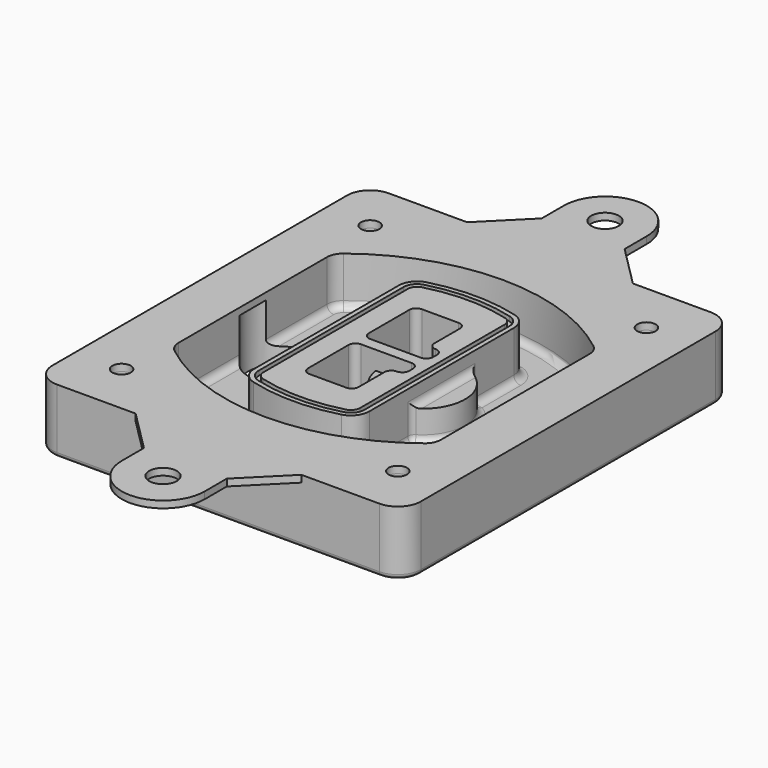
from build123d import *

# Parameters (mm, degrees)
F0_R      = 4
F1_DEPTH  = 25
F2_DEPTH  = 3
F3_DEPTH  = 18
F5_DEPTH  = 21
F6_DEPTH  = 2
F8_DEPTH  = 20
F9_DEPTH  = 16
F10_DEPTH = 25
F7_R      = 6
F7_R_2    = 4
F11_DEPTH = 6
F13_DEPTH = 9
F14_R     = 3
F15_R     = 2
F16_R     = 4
F16_R_2   = 6
F17_DEPTH = 3


with BuildPart() as f1:
    # F0 (on Top) → F1 (new body)
    with BuildSketch(Plane.XY):
        with BuildLine():
            ThreePointArc((-80, -80), (-77.0710678119, -87.0710678119), (-70, -90))
            Line((-70, -90), (70, -90))
            ThreePointArc((70, -90), (77.0710678119, -87.0710678119), (80, -80))
            Line((80, -80), (80, 80))
            ThreePointArc((80, 80), (77.0710678119, 87.0710678119), (70, 90))
            Line((70, 90), (-70, 90))
            ThreePointArc((-70, 90), (-77.0710678119, 87.0710678119), (-80, 80))
            Line((-80, 80), (-80, -80))
        make_face()
        with Locations((-60, -67.5)):
            Circle(F0_R, mode=Mode.SUBTRACT)
        with Locations((60, -67.5)):
            Circle(F0_R, mode=Mode.SUBTRACT)
        with Locations((-60, 67.5)):
            Circle(F0_R, mode=Mode.SUBTRACT)
        with BuildLine():
            ThreePointArc((-64, 40.2934422872), (-62.5820384798, 46.4328484224), (-58.6153846154, 51.3286200352))
            ThreePointArc((-58.6153846154, 51.3286200352), (0, 71.5), (58.6153846154, 51.3286200352))
            ThreePointArc((58.6153846154, 51.3286200352), (62.5820384798, 46.4328484224), (64, 40.2934422872))
            Line((64, 40.2934422872), (64, -40.2934422872))
            ThreePointArc((64, -40.2934422872), (62.5820384798, -46.4328484224), (58.6153846154, -51.3286200352))
            ThreePointArc((58.6153846154, -51.3286200352), (0, -71.5), (-58.6153846154, -51.3286200352))
            ThreePointArc((-58.6153846154, -51.3286200352), (-62.5820384798, -46.4328484224), (-64, -40.2934422872))
            Line((-64, -40.2934422872), (-64, 40.2934422872))
        make_face(mode=Mode.SUBTRACT)
        with Locations((60, 67.5)):
            Circle(F0_R, mode=Mode.SUBTRACT)
        with BuildLine():
            ThreePointArc((58.6153846154, 51.3286200352), (0, 71.5), (-58.6153846154, 51.3286200352))
            ThreePointArc((-58.6153846154, 51.3286200352), (-62.5820384798, 46.4328484224), (-64, 40.2934422872))
            Line((-64, 40.2934422872), (-64, -40.2934422872))
            ThreePointArc((-64, -40.2934422872), (-62.5820384798, -46.4328484224), (-58.6153846154, -51.3286200352))
            ThreePointArc((-58.6153846154, -51.3286200352), (0, -71.5), (58.6153846154, -51.3286200352))
            ThreePointArc((58.6153846154, -51.3286200352), (62.5820384798, -46.4328484224), (64, -40.2934422872))
            Line((64, -40.2934422872), (64, 40.2934422872))
            ThreePointArc((64, 40.2934422872), (62.5820384798, 46.4328484224), (58.6153846154, 51.3286200352))
        make_face()
        with BuildLine():
            Line((-60, -40.2934422872), (-60, 40.2934422872))
            ThreePointArc((-60, 40.2934422872), (-58.9871703427, 44.6787323838), (-56.1538461538, 48.1757121072))
            ThreePointArc((-56.1538461538, 48.1757121072), (0, 67.5), (56.1538461538, 48.1757121072))
            ThreePointArc((56.1538461538, 48.1757121072), (58.9871703427, 44.6787323838), (60, 40.2934422872))
            Line((60, 40.2934422872), (60, -40.2934422872))
            ThreePointArc((60, -40.2934422872), (58.9871703427, -44.6787323838), (56.1538461538, -48.1757121072))
            ThreePointArc((56.1538461538, -48.1757121072), (0, -67.5), (-56.1538461538, -48.1757121072))
            ThreePointArc((-56.1538461538, -48.1757121072), (-58.9871703427, -44.6787323838), (-60, -40.2934422872))
        make_face(mode=Mode.SUBTRACT)
        with BuildLine():
            ThreePointArc((-56.1538461538, 48.1757121072), (-58.9871703427, 44.6787323838), (-60, 40.2934422872))
            Line((-60, 40.2934422872), (-60, -40.2934422872))
            ThreePointArc((-60, -40.2934422872), (-58.9871703427, -44.6787323838), (-56.1538461538, -48.1757121072))
            ThreePointArc((-56.1538461538, -48.1757121072), (0, -67.5), (56.1538461538, -48.1757121072))
            ThreePointArc((56.1538461538, -48.1757121072), (58.9871703427, -44.6787323838), (60, -40.2934422872))
            Line((60, -40.2934422872), (60, 40.2934422872))
            ThreePointArc((60, 40.2934422872), (58.9871703427, 44.6787323838), (56.1538461538, 48.1757121072))
            ThreePointArc((56.1538461538, 48.1757121072), (0, 67.5), (-56.1538461538, 48.1757121072))
        make_face()
        with BuildLine():
            ThreePointArc((54.3076923077, 45.8110311612), (56.2910192399, 43.3631453548), (57, 40.2934422872))
            Line((57, 40.2934422872), (57, -40.2934422872))
            ThreePointArc((57, -40.2934422872), (56.2910192399, -43.3631453548), (54.3076923077, -45.8110311612))
            ThreePointArc((54.3076923077, -45.8110311612), (0, -64.5), (-54.3076923077, -45.8110311612))
            ThreePointArc((-54.3076923077, -45.8110311612), (-56.2910192399, -43.3631453548), (-57, -40.2934422872))
            Line((-57, -40.2934422872), (-57, 40.2934422872))
            ThreePointArc((-57, 40.2934422872), (-56.2910192399, 43.3631453548), (-54.3076923077, 45.8110311612))
            ThreePointArc((-54.3076923077, 45.8110311612), (0, 64.5), (54.3076923077, 45.8110311612))
        make_face(mode=Mode.SUBTRACT)
        with BuildLine():
            Line((57, -40.2934422872), (57, 40.2934422872))
            ThreePointArc((57, 40.2934422872), (56.2910192399, 43.3631453548), (54.3076923077, 45.8110311612))
            ThreePointArc((54.3076923077, 45.8110311612), (0, 64.5), (-54.3076923077, 45.8110311612))
            ThreePointArc((-54.3076923077, 45.8110311612), (-56.2910192399, 43.3631453548), (-57, 40.2934422872))
            Line((-57, 40.2934422872), (-57, -40.2934422872))
            ThreePointArc((-57, -40.2934422872), (-56.2910192399, -43.3631453548), (-54.3076923077, -45.8110311612))
            ThreePointArc((-54.3076923077, -45.8110311612), (0, -64.5), (54.3076923077, -45.8110311612))
            ThreePointArc((54.3076923077, -45.8110311612), (56.2910192399, -43.3631453548), (57, -40.2934422872))
        make_face()
    extrude(amount=-F1_DEPTH)

    # F0 (on Top) → F2 (join)
    with BuildSketch(Plane.XY):
        with BuildLine():
            ThreePointArc((-56.1538461538, 48.1757121072), (-58.9871703427, 44.6787323838), (-60, 40.2934422872))
            Line((-60, 40.2934422872), (-60, -40.2934422872))
            ThreePointArc((-60, -40.2934422872), (-58.9871703427, -44.6787323838), (-56.1538461538, -48.1757121072))
            ThreePointArc((-56.1538461538, -48.1757121072), (0, -67.5), (56.1538461538, -48.1757121072))
            ThreePointArc((56.1538461538, -48.1757121072), (58.9871703427, -44.6787323838), (60, -40.2934422872))
            Line((60, -40.2934422872), (60, 40.2934422872))
            ThreePointArc((60, 40.2934422872), (58.9871703427, 44.6787323838), (56.1538461538, 48.1757121072))
            ThreePointArc((56.1538461538, 48.1757121072), (0, 67.5), (-56.1538461538, 48.1757121072))
        make_face()
        with BuildLine():
            ThreePointArc((54.3076923077, 45.8110311612), (56.2910192399, 43.3631453548), (57, 40.2934422872))
            Line((57, 40.2934422872), (57, -40.2934422872))
            ThreePointArc((57, -40.2934422872), (56.2910192399, -43.3631453548), (54.3076923077, -45.8110311612))
            ThreePointArc((54.3076923077, -45.8110311612), (0, -64.5), (-54.3076923077, -45.8110311612))
            ThreePointArc((-54.3076923077, -45.8110311612), (-56.2910192399, -43.3631453548), (-57, -40.2934422872))
            Line((-57, -40.2934422872), (-57, 40.2934422872))
            ThreePointArc((-57, 40.2934422872), (-56.2910192399, 43.3631453548), (-54.3076923077, 45.8110311612))
            ThreePointArc((-54.3076923077, 45.8110311612), (0, 64.5), (54.3076923077, 45.8110311612))
        make_face(mode=Mode.SUBTRACT)
    extrude(amount=F2_DEPTH)

    # F0 (on Top) → F3 (cut)
    with BuildSketch(Plane.XY):
        with BuildLine():
            Line((57, -40.2934422872), (57, 40.2934422872))
            ThreePointArc((57, 40.2934422872), (56.2910192399, 43.3631453548), (54.3076923077, 45.8110311612))
            ThreePointArc((54.3076923077, 45.8110311612), (0, 64.5), (-54.3076923077, 45.8110311612))
            ThreePointArc((-54.3076923077, 45.8110311612), (-56.2910192399, 43.3631453548), (-57, 40.2934422872))
            Line((-57, 40.2934422872), (-57, -40.2934422872))
            ThreePointArc((-57, -40.2934422872), (-56.2910192399, -43.3631453548), (-54.3076923077, -45.8110311612))
            ThreePointArc((-54.3076923077, -45.8110311612), (0, -64.5), (54.3076923077, -45.8110311612))
            ThreePointArc((54.3076923077, -45.8110311612), (56.2910192399, -43.3631453548), (57, -40.2934422872))
        make_face()
    extrude(amount=-F3_DEPTH, mode=Mode.SUBTRACT)

    # F4 (on face) → F5 (join, through all)
    with BuildSketch(Plane.XY.offset(3)):
        with BuildLine():
            ThreePointArc((-25, -39.2465276821), (-23.3511545998, -44.1109737193), (-19.0842911877, -46.9702398883))
            ThreePointArc((-19.0842911877, -46.9702398883), (0, -49.5), (19.0842911877, -46.9702398883))
            ThreePointArc((19.0842911877, -46.9702398883), (23.3511545998, -44.1109737193), (25, -39.2465276821))
            Line((25, -39.2465276821), (25, 39.2465276821))
            ThreePointArc((25, 39.2465276821), (23.3511545998, 44.1109737193), (19.0842911877, 46.9702398883))
            ThreePointArc((19.0842911877, 46.9702398883), (0, 49.5), (-19.0842911877, 46.9702398883))
            ThreePointArc((-19.0842911877, 46.9702398883), (-23.3511545998, 44.1109737193), (-25, 39.2465276821))
            Line((-25, 39.2465276821), (-25, -39.2465276821))
        make_face()
        with BuildLine():
            ThreePointArc((18.5632183908, 45.0393118368), (21.7633659499, 42.89486221), (23, 39.2465276821))
            Line((23, 39.2465276821), (23, -39.2465276821))
            ThreePointArc((23, -39.2465276821), (21.7633659499, -42.89486221), (18.5632183908, -45.0393118368))
            ThreePointArc((18.5632183908, -45.0393118368), (0, -47.5), (-18.5632183908, -45.0393118368))
            ThreePointArc((-18.5632183908, -45.0393118368), (-21.7633659499, -42.89486221), (-23, -39.2465276821))
            Line((-23, -39.2465276821), (-23, 39.2465276821))
            ThreePointArc((-23, 39.2465276821), (-21.7633659499, 42.89486221), (-18.5632183908, 45.0393118368))
            ThreePointArc((-18.5632183908, 45.0393118368), (0, 47.5), (18.5632183908, 45.0393118368))
        make_face(mode=Mode.SUBTRACT)
        with BuildLine():
            Line((23, -39.2465276821), (23, 39.2465276821))
            ThreePointArc((23, 39.2465276821), (21.7633659499, 42.89486221), (18.5632183908, 45.0393118368))
            ThreePointArc((18.5632183908, 45.0393118368), (0, 47.5), (-18.5632183908, 45.0393118368))
            ThreePointArc((-18.5632183908, 45.0393118368), (-21.7633659499, 42.89486221), (-23, 39.2465276821))
            Line((-23, 39.2465276821), (-23, -39.2465276821))
            ThreePointArc((-23, -39.2465276821), (-21.7633659499, -42.89486221), (-18.5632183908, -45.0393118368))
            ThreePointArc((-18.5632183908, -45.0393118368), (0, -47.5), (18.5632183908, -45.0393118368))
            ThreePointArc((18.5632183908, -45.0393118368), (21.7633659499, -42.89486221), (23, -39.2465276821))
        make_face()
        with BuildLine():
            ThreePointArc((18.0421455939, 43.1083837852), (20.1755772999, 41.6787507007), (21, 39.2465276821))
            Line((21, 39.2465276821), (21, -39.2465276821))
            ThreePointArc((21, -39.2465276821), (20.1755772999, -41.6787507007), (18.0421455939, -43.1083837852))
            ThreePointArc((18.0421455939, -43.1083837852), (0, -45.5), (-18.0421455939, -43.1083837852))
            ThreePointArc((-18.0421455939, -43.1083837852), (-20.1755772999, -41.6787507007), (-21, -39.2465276821))
            Line((-21, -39.2465276821), (-21, 39.2465276821))
            ThreePointArc((-21, 39.2465276821), (-20.1755772999, 41.6787507007), (-18.0421455939, 43.1083837852))
            ThreePointArc((-18.0421455939, 43.1083837852), (0, 45.5), (18.0421455939, 43.1083837852))
        make_face(mode=Mode.SUBTRACT)
        with BuildLine():
            Line((21, -39.2465276821), (21, 39.2465276821))
            ThreePointArc((21, 39.2465276821), (20.1755772999, 41.6787507007), (18.0421455939, 43.1083837852))
            ThreePointArc((18.0421455939, 43.1083837852), (0, 45.5), (-18.0421455939, 43.1083837852))
            ThreePointArc((-18.0421455939, 43.1083837852), (-20.1755772999, 41.6787507007), (-21, 39.2465276821))
            Line((-21, 39.2465276821), (-21, -39.2465276821))
            ThreePointArc((-21, -39.2465276821), (-20.1755772999, -41.6787507007), (-18.0421455939, -43.1083837852))
            ThreePointArc((-18.0421455939, -43.1083837852), (0, -45.5), (18.0421455939, -43.1083837852))
            ThreePointArc((18.0421455939, -43.1083837852), (20.1755772999, -41.6787507007), (21, -39.2465276821))
        make_face()
        with BuildLine():
            Line((-8, -2.5), (14, -2.5))
            ThreePointArc((14, -2.5), (16.1213203436, -3.3786796564), (17, -5.5))
            Line((17, -5.5), (17, -7.5))
            ThreePointArc((17, -7.5), (16.1213203436, -9.6213203436), (14, -10.5))
            ThreePointArc((14, -10.5), (11.8786796564, -11.3786796564), (11, -13.5))
            Line((11, -13.5), (11, -27.5))
            ThreePointArc((11, -27.5), (10.1213203436, -29.6213203436), (8, -30.5))
            Line((8, -30.5), (-8, -30.5))
            ThreePointArc((-8, -30.5), (-10.1213203436, -29.6213203436), (-11, -27.5))
            Line((-11, -27.5), (-11, -5.5))
            ThreePointArc((-11, -5.5), (-10.1213203436, -3.3786796564), (-8, -2.5))
        make_face(mode=Mode.SUBTRACT)
        with BuildLine():
            ThreePointArc((-8, 2.5), (-10.1213203436, 3.3786796564), (-11, 5.5))
            Line((-11, 5.5), (-11, 27.5))
            ThreePointArc((-11, 27.5), (-10.1213203436, 29.6213203436), (-8, 30.5))
            Line((-8, 30.5), (8, 30.5))
            ThreePointArc((8, 30.5), (10.1213203436, 29.6213203436), (11, 27.5))
            Line((11, 27.5), (11, 13.5))
            ThreePointArc((11, 13.5), (11.8786796564, 11.3786796564), (14, 10.5))
            ThreePointArc((14, 10.5), (16.1213203436, 9.6213203436), (17, 7.5))
            Line((17, 7.5), (17, 5.5))
            ThreePointArc((17, 5.5), (16.1213203436, 3.3786796564), (14, 2.5))
            Line((14, 2.5), (-8, 2.5))
        make_face(mode=Mode.SUBTRACT)
    extrude(amount=-F5_DEPTH)

    # F4 (on face) → F6 (cut)
    with BuildSketch(Plane.XY.offset(3)):
        with BuildLine():
            Line((23, -39.2465276821), (23, 39.2465276821))
            ThreePointArc((23, 39.2465276821), (21.7633659499, 42.89486221), (18.5632183908, 45.0393118368))
            ThreePointArc((18.5632183908, 45.0393118368), (0, 47.5), (-18.5632183908, 45.0393118368))
            ThreePointArc((-18.5632183908, 45.0393118368), (-21.7633659499, 42.89486221), (-23, 39.2465276821))
            Line((-23, 39.2465276821), (-23, -39.2465276821))
            ThreePointArc((-23, -39.2465276821), (-21.7633659499, -42.89486221), (-18.5632183908, -45.0393118368))
            ThreePointArc((-18.5632183908, -45.0393118368), (0, -47.5), (18.5632183908, -45.0393118368))
            ThreePointArc((18.5632183908, -45.0393118368), (21.7633659499, -42.89486221), (23, -39.2465276821))
        make_face()
        with BuildLine():
            ThreePointArc((18.0421455939, 43.1083837852), (20.1755772999, 41.6787507007), (21, 39.2465276821))
            Line((21, 39.2465276821), (21, -39.2465276821))
            ThreePointArc((21, -39.2465276821), (20.1755772999, -41.6787507007), (18.0421455939, -43.1083837852))
            ThreePointArc((18.0421455939, -43.1083837852), (0, -45.5), (-18.0421455939, -43.1083837852))
            ThreePointArc((-18.0421455939, -43.1083837852), (-20.1755772999, -41.6787507007), (-21, -39.2465276821))
            Line((-21, -39.2465276821), (-21, 39.2465276821))
            ThreePointArc((-21, 39.2465276821), (-20.1755772999, 41.6787507007), (-18.0421455939, 43.1083837852))
            ThreePointArc((-18.0421455939, 43.1083837852), (0, 45.5), (18.0421455939, 43.1083837852))
        make_face(mode=Mode.SUBTRACT)
    extrude(amount=-F6_DEPTH, mode=Mode.SUBTRACT)

    # F7 (on face) → F8 (join)
    with BuildSketch(Plane(origin=(0, 0, -25), x_dir=(1, 0, 0), z_dir=(0, 0, -1))):
        with BuildLine():
            ThreePointArc((3.28842436, 0), (16.7567035675, 13.4682792075), (30.224982775, 0))
            Line((30.224982775, 0), (35.224982775, 0))
            ThreePointArc((35.224982775, 0), (16.7567035675, 18.4682792075), (-1.71157564, 0))
            Line((-1.71157564, 0), (3.28842436, 0))
        make_face()
        with BuildLine():
            Line((3.28842436, 0), (30.224982775, 0))
            ThreePointArc((30.224982775, 0), (16.7567035675, 13.4682792075), (3.28842436, 0))
        make_face()
        with BuildLine():
            ThreePointArc((3.28842436, 0), (16.7567035675, -13.4682792075), (30.224982775, 0))
            Line((30.224982775, 0), (3.28842436, 0))
        make_face()
        with BuildLine():
            Line((35.224982775, 0), (30.224982775, 0))
            ThreePointArc((30.224982775, 0), (16.7567035675, -13.4682792075), (3.28842436, 0))
            Line((3.28842436, 0), (-1.71157564, 0))
            ThreePointArc((-1.71157564, 0), (16.7567035675, -18.4682792075), (35.224982775, 0))
        make_face()
    extrude(amount=-F8_DEPTH)

    # F7 (on face) → F9 (cut)
    with BuildSketch(Plane(origin=(0, 0, -25), x_dir=(1, 0, 0), z_dir=(0, 0, -1))):
        with BuildLine():
            Line((3.28842436, 0), (30.224982775, 0))
            ThreePointArc((30.224982775, 0), (16.7567035675, 13.4682792075), (3.28842436, 0))
        make_face()
        with BuildLine():
            ThreePointArc((3.28842436, 0), (16.7567035675, -13.4682792075), (30.224982775, 0))
            Line((30.224982775, 0), (3.28842436, 0))
        make_face()
    extrude(amount=-F9_DEPTH, mode=Mode.SUBTRACT)

    # F7 (on face) → F10 (cut)
    with BuildSketch(Plane(origin=(0, 0, -25), x_dir=(1, 0, 0), z_dir=(0, 0, -1))):
        with BuildLine():
            Line((-59.0318229325, 0), (-32.0952645175, 0))
            ThreePointArc((-32.0952645175, 0), (-45.563543725, 13.4682792075), (-59.0318229325, 0))
        make_face()
        with BuildLine():
            ThreePointArc((-59.0318229325, 0), (-45.563543725, -13.4682792075), (-32.0952645175, 0))
            Line((-32.0952645175, 0), (-59.0318229325, 0))
        make_face()
    extrude(amount=-F10_DEPTH, mode=Mode.SUBTRACT)

    # F7 (on face) → F11 (cut)
    with BuildSketch(Plane(origin=(0, 0, -25), x_dir=(1, 0, 0), z_dir=(0, 0, -1))):
        with Locations((60, -67.5)):
            Circle(F7_R)
        with Locations((60, -67.5)):
            Circle(F7_R_2, mode=Mode.SUBTRACT)
        with Locations((60, -67.5)):
            Circle(F7_R)
        with Locations((60, -67.5)):
            Circle(F7_R_2, mode=Mode.SUBTRACT)
        with Locations((-60, -67.5)):
            Circle(F7_R)
        with Locations((-60, -67.5)):
            Circle(F7_R_2, mode=Mode.SUBTRACT)
        with Locations((-60, -67.5)):
            Circle(F7_R)
        with Locations((-60, -67.5)):
            Circle(F7_R_2, mode=Mode.SUBTRACT)
        with Locations((-60, 67.5)):
            Circle(F7_R)
        with Locations((-60, 67.5)):
            Circle(F7_R_2, mode=Mode.SUBTRACT)
        with Locations((-60, 67.5)):
            Circle(F7_R)
        with Locations((-60, 67.5)):
            Circle(F7_R_2, mode=Mode.SUBTRACT)
        with Locations((60, 67.5)):
            Circle(F7_R)
        with Locations((60, 67.5)):
            Circle(F7_R_2, mode=Mode.SUBTRACT)
        with Locations((60, 67.5)):
            Circle(F7_R)
        with Locations((60, 67.5)):
            Circle(F7_R_2, mode=Mode.SUBTRACT)
    extrude(amount=-F11_DEPTH, mode=Mode.SUBTRACT)

    # F12 (on face) → F13 (cut, through all)
    with BuildSketch(Plane(origin=(0, 0, -9), x_dir=(1, 0, 0), z_dir=(0, 0, -1))):
        with BuildLine():
            Line((11, 13.5), (11, 17.5481537753))
            ThreePointArc((11, 17.5481537753), (2.5696536419, 11.8239143813), (-1.5415842455, 2.5))
            Line((-1.5415842455, 2.5), (3.5224848595, 2.5))
            ThreePointArc((3.5224848595, 2.5), (6.1857188154, 8.3455872281), (11.2536447004, 12.2927168648))
            ThreePointArc((11.2536447004, 12.2927168648), (11.0640958889, 12.8831798879), (11, 13.5))
        make_face()
        with BuildLine():
            ThreePointArc((11.2536447004, -12.2927168648), (6.1857188154, -8.3455872281), (3.5224848595, -2.5))
            Line((3.5224848595, -2.5), (-1.5415842455, -2.5))
            ThreePointArc((-1.5415842455, -2.5), (2.5696536419, -11.8239143813), (11, -17.5481537753))
            Line((11, -17.5481537753), (11, -13.5))
            ThreePointArc((11, -13.5), (11.0640958889, -12.8831798879), (11.2536447004, -12.2927168648))
        make_face()
        with BuildLine():
            ThreePointArc((11.2536447004, 12.2927168648), (6.1857188154, 8.3455872281), (3.5224848595, 2.5))
            Line((3.5224848595, 2.5), (14, 2.5))
            ThreePointArc((14, 2.5), (16.1213203436, 3.3786796564), (17, 5.5))
            Line((17, 5.5), (17, 7.5))
            ThreePointArc((17, 7.5), (16.1213203436, 9.6213203436), (14, 10.5))
            ThreePointArc((14, 10.5), (12.3601599782, 10.9878446101), (11.2536447004, 12.2927168648))
        make_face()
        with BuildLine():
            Line((14, -2.5), (3.5224848595, -2.5))
            ThreePointArc((3.5224848595, -2.5), (6.1857188154, -8.3455872281), (11.2536447004, -12.2927168648))
            ThreePointArc((11.2536447004, -12.2927168648), (12.3601599782, -10.9878446101), (14, -10.5))
            ThreePointArc((14, -10.5), (16.1213203436, -9.6213203436), (17, -7.5))
            Line((17, -7.5), (17, -5.5))
            ThreePointArc((17, -5.5), (16.1213203436, -3.3786796564), (14, -2.5))
        make_face()
    extrude(amount=F13_DEPTH, mode=Mode.SUBTRACT)

    # F14
    f14_edges = [f1.edges().sort_by_distance(p)[0] for p in [
        (-57, -23.703476, -18),
        (-57, 23.703476, -18),
        (25, 0, -5),
        (25, 16.526506, -11.5),
        (25, -16.526506, -11.5),
        (25, -27.886517, -18),
        (35.224983, 0, -18),
    ]]
    fillet(f14_edges, radius=F14_R)

    # F15
    f15_edges = [f1.edges().sort_by_distance(p)[0] for p in [
        (0, -90, -25),
    ]]
    fillet(f15_edges, radius=F15_R)

    # F16 (on face) → F17 (join, through all)
    with BuildSketch(Plane.XY):
        with BuildLine():
            Line((-35.8875007331, 90), (-70, 90))
            ThreePointArc((-70, 90), (-77.0710678119, 87.0710678119), (-80, 80))
            Line((-80, 80), (-80, -80))
            ThreePointArc((-80, -80), (-77.0710678119, -87.0710678119), (-70, -90))
            Line((-70, -90), (-35.8875007331, -90))
            Line((-35.8875007331, -90), (36.1124992669, -90))
            Line((36.1124992669, -90), (70, -90))
            ThreePointArc((70, -90), (77.0710678119, -87.0710678119), (80, -80))
            Line((80, -80), (80, 80))
            ThreePointArc((80, 80), (77.0710678119, 87.0710678119), (70, 90))
            Line((70, 90), (36.1124992669, 90))
            Line((36.1124992669, 90), (0, 90))
            Line((0, 90), (-35.8875007331, 90))
        make_face()
        with Locations((-60, -67.5)):
            Circle(F16_R, mode=Mode.SUBTRACT)
        with Locations((60, -67.5)):
            Circle(F16_R, mode=Mode.SUBTRACT)
        with Locations((-60, 67.5)):
            Circle(F16_R, mode=Mode.SUBTRACT)
        with BuildLine():
            ThreePointArc((-56.1538461538, 48.1757121072), (0, 67.5), (56.1538461538, 48.1757121072))
            ThreePointArc((56.1538461538, 48.1757121072), (58.9871703427, 44.6787323838), (60, 40.2934422872))
            Line((60, 40.2934422872), (60, -40.2934422872))
            ThreePointArc((60, -40.2934422872), (58.9871703427, -44.6787323838), (56.1538461538, -48.1757121072))
            ThreePointArc((56.1538461538, -48.1757121072), (0, -67.5), (-56.1538461538, -48.1757121072))
            ThreePointArc((-56.1538461538, -48.1757121072), (-58.9871703427, -44.6787323838), (-60, -40.2934422872))
            Line((-60, -40.2934422872), (-60, 40.2934422872))
            ThreePointArc((-60, 40.2934422872), (-58.9871703427, 44.6787323838), (-56.1538461538, 48.1757121072))
        make_face(mode=Mode.SUBTRACT)
        with Locations((60, 67.5)):
            Circle(F16_R, mode=Mode.SUBTRACT)
        with BuildLine():
            Line((-17.8875007331, 108), (-35.8875007331, 90))
            Line((-35.8875007331, 90), (0, 90))
            Line((0, 90), (36.1124992669, 90))
            Line((36.1124992669, 90), (18.1124992669, 108))
            Line((18.1124992669, 108), (18.1124992669, 120))
            ThreePointArc((18.1124992669, 120), (0.1124992669, 138), (-17.8875007331, 120))
            Line((-17.8875007331, 120), (-17.8875007331, 108))
        make_face()
        with BuildLine():
            ThreePointArc((6, 120), (4.2426406871, 115.7573593129), (0, 114))
            ThreePointArc((0, 114), (-4.2426406871, 124.2426406871), (6, 120))
        make_face(mode=Mode.SUBTRACT)
        with BuildLine():
            Line((36.1124992669, -90), (-35.8875007331, -90))
            Line((-35.8875007331, -90), (-17.8875007331, -108))
            Line((-17.8875007331, -108), (-17.8875007331, -120))
            ThreePointArc((-17.8875007331, -120), (0.1124992669, -138), (18.1124992669, -120))
            Line((18.1124992669, -120), (18.1124992669, -108))
            Line((18.1124992669, -108), (36.1124992669, -90))
        make_face()
        with Locations((0, -120)):
            Circle(F16_R_2, mode=Mode.SUBTRACT)
    extrude(amount=F17_DEPTH)


solid = f1.part
